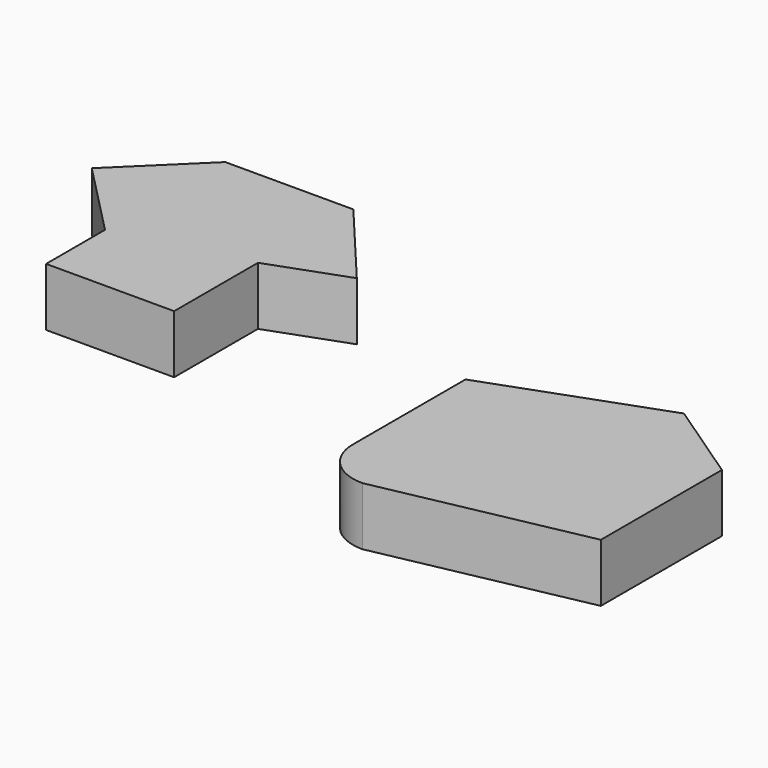
from build123d import *

# Parameters (mm, degrees)
F1_DEPTH = 25


with BuildPart() as f1:
    # F0 (on Top) → F1 (new body)
    with BuildSketch(Plane.XY):
        Polygon((-58.108077, 71.917452), (-58.108077, 40.279717), (-3.108077, 40.279717), (-3.108077, 85.279717), (29.781165, 97.250422), (-2.358216, 135.552644), (-57.358216, 135.552644), (-89.550742, 104.109979), align=None)
        with BuildLine():
            Line((124.178841, -17.813946), (212.398246, 0))
            Line((212.398246, 0), (212.398246, 65))
            Line((212.398246, 65), (176.874364, 89.05028))
            Line((176.874364, 89.05028), (104.182977, 62.592779))
            Line((104.182977, 62.592779), (104.182977, 2.592779))
            ThreePointArc((104.182977, 2.592779), (109.893631, -11.811544), (124.178841, -17.813946))
        make_face()
    extrude(amount=F1_DEPTH)


solid = f1.part
